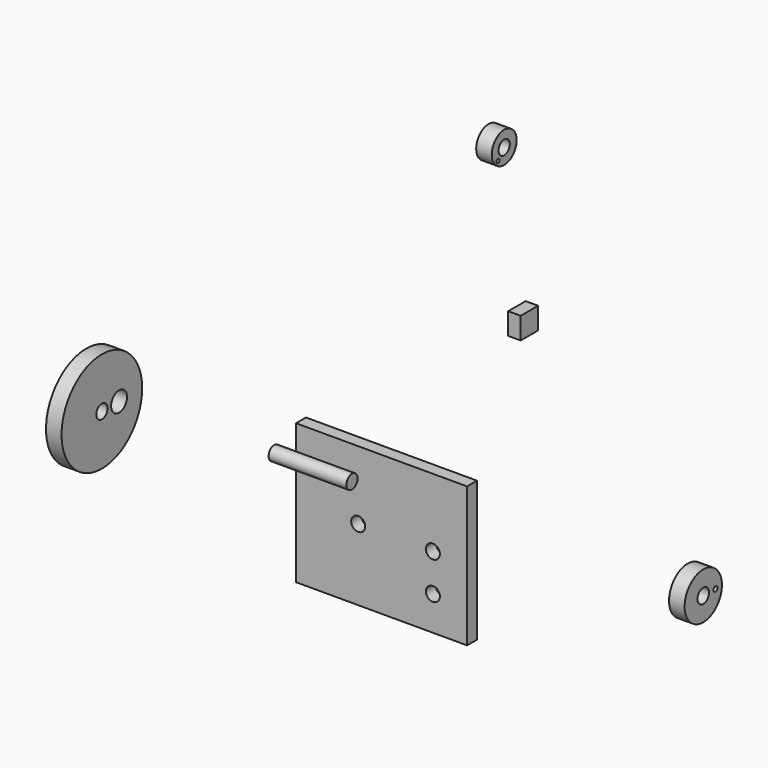
from build123d import *

# Parameters (mm, degrees)
F0_W     = 69.85
F0_H     = 57.15
F0_R     = 2.8575
F1_DEPTH = 5.08
F2_R     = 20.574
F2_R_2   = 2.8575
F2_R_3   = 4.057439
F2_R_4   = 6.35
F2_R_5   = 0.820909
F2_R_6   = 9.525
F2_R_7   = 2.95275
F2_R_8   = 1.025774
F3_DEPTH = 6.35
F4_R     = 2.8575
F5_DEPTH = 31.75
F6_W     = 8.89
F6_H     = 8.89
F7_DEPTH = 5.08


with BuildPart() as f1:
    # F0 (on Front) → F1 (new body)
    with BuildSketch(Plane.XZ):
        with Locations((2e-06, 4.193716)):
            Rectangle(F0_W, F0_H)
        with Locations((20.955002, -10.411284)):
            Circle(F0_R, mode=Mode.SUBTRACT)
        with Locations((-9.524998, 4.828716)):
            Circle(F0_R, mode=Mode.SUBTRACT)
        with Locations((20.955002, 4.828716)):
            Circle(F0_R, mode=Mode.SUBTRACT)
    extrude(amount=F1_DEPTH)


with BuildPart() as f3:
    # F2 (on Right) → F3 (new body)
    with BuildSketch(Plane.YZ):
        with Locations((-155.7477, 111.661687)):
            Circle(F2_R)
        with Locations((-155.7477, 111.661687)):
            Circle(F2_R_2, mode=Mode.SUBTRACT)
        with Locations((-146.975994, 111.661687)):
            Circle(F2_R_3, mode=Mode.SUBTRACT)
        with Locations((49.58295, 123.108699)):
            Circle(F2_R_4)
        with Locations((46.356283, 119.472131)):
            Circle(F2_R_5, mode=Mode.SUBTRACT)
        with Locations((49.58295, 123.108699)):
            Circle(F2_R_2, mode=Mode.SUBTRACT)
        with Locations((151.175125, -79.360212)):
            Circle(F2_R_6)
        with Locations((151.175125, -79.360212)):
            Circle(F2_R_7, mode=Mode.SUBTRACT)
        with Locations((157.396898, -79.448685)):
            Circle(F2_R_8, mode=Mode.SUBTRACT)
    extrude(amount=F3_DEPTH)


with BuildPart() as f5:
    # F4 (on Right) → F5 (new body)
    with BuildSketch(Plane.YZ):
        with Locations((-59.85, 55.711281)):
            Circle(F4_R)
    extrude(amount=F5_DEPTH)


with BuildPart() as f7:
    # F6 (on Right) → F7 (new body)
    with BuildSketch(Plane.YZ):
        with Locations((64.029455, 53.659578)):
            Rectangle(F6_W, F6_H)
    extrude(amount=F7_DEPTH)


solid = Compound([f1.part, f3.part, f5.part, f7.part])
